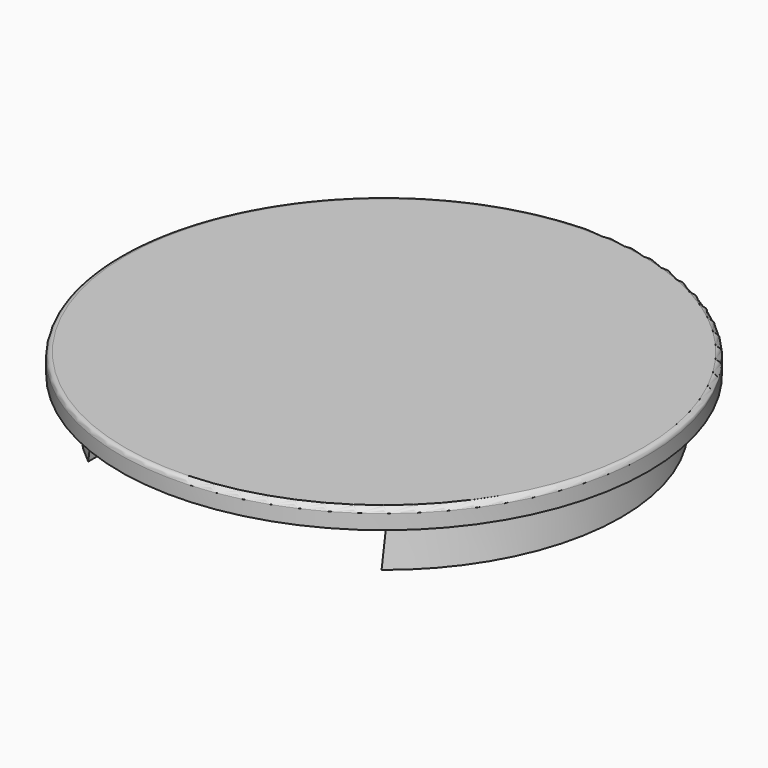
from build123d import *

# Parameters (mm, degrees)
F0_R          = 27
F0_R_2        = 23.65
F1_DEPTH      = 2
F2_DEPTH      = 5
F2_TAPER      = -7
F3_T          = -2
F4_W          = 15
F4_H          = 7.3000405619
F5_DEPTH      = 25
F5_DEPTH_BACK = 25
F6_R          = 0.5


with BuildPart() as f1:
    # F0 (on Top) → F1 (new body)
    with BuildSketch(Plane.XY):
        Circle(F0_R)
        Circle(F0_R_2, mode=Mode.SUBTRACT)
        Circle(F0_R_2)
    extrude(amount=F1_DEPTH)

    # F0 (on Top) → F2 (join)
    with BuildSketch(Plane.XY):
        Circle(F0_R_2)
    extrude(amount=-F2_DEPTH, taper=F2_TAPER)

    # F3
    f3_openings = [f1.faces().sort_by_distance(p)[0] for p in [
        (0, 0, -5),
    ]]
    offset(amount=F3_T, openings=f3_openings, kind=Kind.INTERSECTION)

    # F4 (on Front) → F5 (cut, two sides)
    with BuildSketch(Plane.XZ) as f5_sk:
        with Locations((7.5, -3.6500202809)):
            Rectangle(F4_W, F4_H)
        with Locations((-7.5, -3.6500202809)):
            Rectangle(F4_W, F4_H)
    extrude(amount=-F5_DEPTH, mode=Mode.SUBTRACT)
    extrude(f5_sk.sketch, amount=F5_DEPTH_BACK, mode=Mode.SUBTRACT)

    # F6
    f6_edges = [f1.edges().sort_by_distance(p)[0] for p in [
        (-27, 0, 2),
    ]]
    fillet(f6_edges, radius=F6_R)


solid = f1.part
